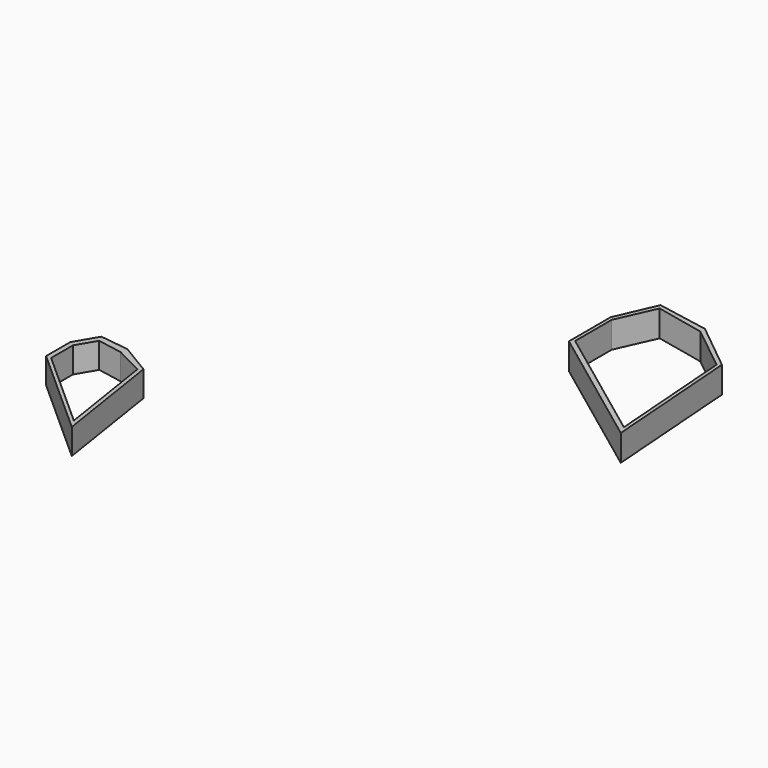
from build123d import *

# Parameters (mm, degrees)
F2_DEPTH = 48.26
F4_DEPTH = 49.53


with BuildPart() as f2:
    # F1 (on Top) → F2 (new body)
    with BuildSketch(Plane.XY):
        Polygon((-91.132313, 435.757071), (-145.481065, 442.864537), (-170.327514, 400.724173), (-170.327514, 343.788445), (0, 191.318527), (-32.641686, 400.724173), align=None)
        Polygon((-10.269723, 208.965756), (-160.883129, 343.788445), (-160.883129, 394.978751), (-139.850093, 430.651445), (-92.479035, 421.929479), (-39.265015, 394.978751), align=None, mode=Mode.SUBTRACT)
    extrude(amount=-F2_DEPTH)


with BuildPart() as f4:
    # F3 (on face) → F4 (new body)
    with BuildSketch(Plane.XY):
        Polygon((459.49465, 883.969188), (459.49465, 786.045909), (701.161351, 605.863232), (681.589191, 868.199138), (590.680242, 941.786973), (492.715359, 959.946334), align=None)
        Polygon((465.920091, 792.604148), (465.920091, 878.572047), (498.332322, 950.973511), (590.680242, 930.882871), (675.353646, 863.445938), (693.286419, 623.083591), align=None, mode=Mode.SUBTRACT)
    extrude(amount=F4_DEPTH)


solid = Compound([f2.part, f4.part])
